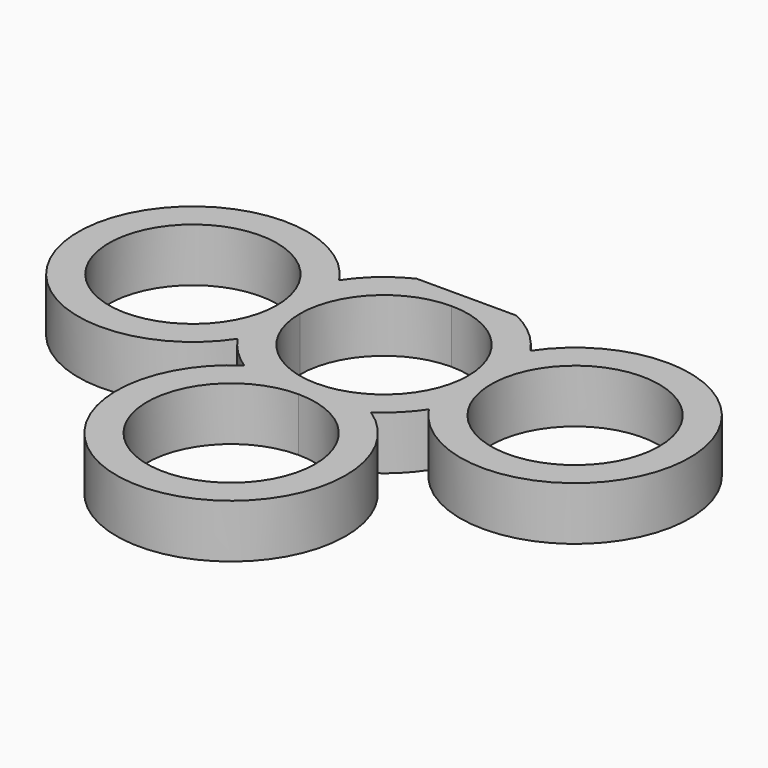
from build123d import *

# Parameters (mm, degrees)
F0_R     = 11
F1_DEPTH = 7


with BuildPart() as f1:
    # F0 (on Top) → F1 (new body)
    with BuildSketch(Plane.XY):
        with BuildLine():
            Line((6.5383484153, 13.5), (0, 13.5))
            Line((0, 13.5), (-6.5383484153, 13.5))
            ThreePointArc((-6.5383484153, 13.5), (-9.8689733133, 11.2961659753), (-12.5, 8.2915619759))
            ThreePointArc((-12.5, 8.2915619759), (-40, 0), (-12.5, -8.2915619759))
            ThreePointArc((-12.5, -8.2915619759), (-10.6066017178, -10.6066017178), (-8.2915619759, -12.5))
            ThreePointArc((-8.2915619759, -12.5), (0, -40), (8.2915619759, -12.5))
            ThreePointArc((8.2915619759, -12.5), (10.6066017178, -10.6066017178), (12.5, -8.2915619759))
            ThreePointArc((12.5, -8.2915619759), (40, 0), (12.5, 8.2915619759))
            ThreePointArc((12.5, 8.2915619759), (9.8689733133, 11.2961659753), (6.5383484153, 13.5))
        make_face()
        with BuildLine():
            ThreePointArc((11, -25), (-7.7781745931, -32.7781745931), (0, -14))
            ThreePointArc((0, -14), (7.7781745931, -17.2218254069), (11, -25))
        make_face(mode=Mode.SUBTRACT)
        with Locations((-25, 0)):
            Circle(F0_R, mode=Mode.SUBTRACT)
        with BuildLine():
            ThreePointArc((-11, 0), (-7.7781745931, 7.7781745931), (0, 11))
            ThreePointArc((0, 11), (7.7781745931, 7.7781745931), (11, 0))
            ThreePointArc((11, 0), (7.7781745931, -7.7781745931), (0, -11))
            ThreePointArc((0, -11), (-7.7781745931, -7.7781745931), (-11, 0))
        make_face(mode=Mode.SUBTRACT)
        with BuildLine():
            ThreePointArc((14, 0), (25, 11), (36, 0))
            ThreePointArc((36, 0), (25, -11), (14, 0))
        make_face(mode=Mode.SUBTRACT)
    extrude(amount=F1_DEPTH)


solid = f1.part
